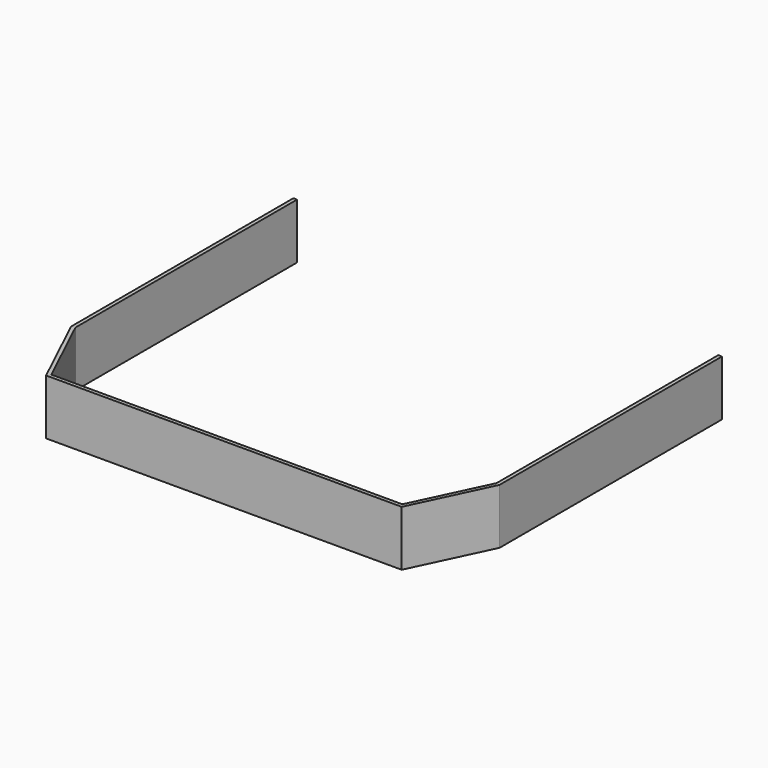
from build123d import *

# Parameters (mm, degrees)
F1_DEPTH      = 10
F1_DEPTH_BACK = 5


with BuildPart() as f1:
    # F0 (on Top) → F1 (new body, two sides)
    with BuildSketch(Plane.XY) as f1_sk:
        Polygon((-57, -29), (-57, 46), (-58, 46), (-58, -29.225431), (-48.132079, -50), (48.132079, -50), (58, -29.225431), (58, 46), (57, 46), (57, -29), (47.5, -49), (-47.5, -49), align=None)
    extrude(amount=F1_DEPTH)
    extrude(f1_sk.sketch, amount=-F1_DEPTH_BACK)


solid = f1.part
